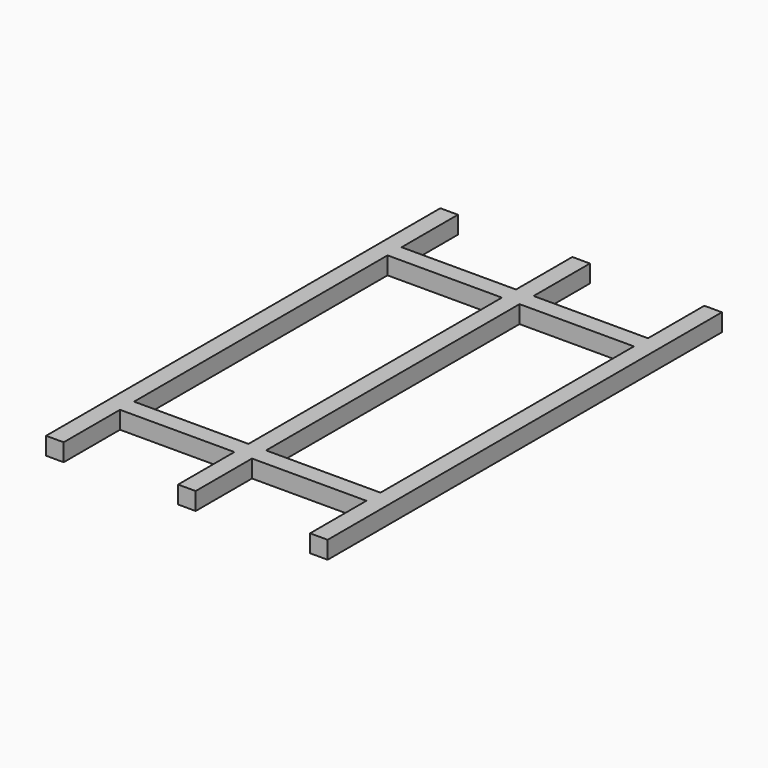
from build123d import *

# Parameters (mm, degrees)
F0_W     = 800
F0_H     = 1400
F1_DEPTH = 50
F2_W     = 325
F2_H     = 200
F2_H_2   = 900
F3_DEPTH = 50


with BuildPart() as f1:
    # F0 (on Top) → F1 (new body)
    with BuildSketch(Plane.XY):
        with Locations((256.27219, 572.146991)):
            Rectangle(F0_W, F0_H)
    extrude(amount=F1_DEPTH)

    # F2 (on face) → F3 (cut)
    with BuildSketch(Plane.XY.offset(50)):
        with Locations((68.77219, 1172.146991)):
            Rectangle(F2_W, F2_H)
        with Locations((68.77219, -27.853009)):
            Rectangle(F2_W, F2_H)
        with Locations((68.77219, 572.146991)):
            Rectangle(F2_W, F2_H_2)
        with Locations((443.77219, 1172.146991)):
            Rectangle(F2_W, F2_H)
        with Locations((443.77219, 572.146991)):
            Rectangle(F2_W, F2_H_2)
        with Locations((443.77219, -27.853009)):
            Rectangle(F2_W, F2_H)
    extrude(amount=-F3_DEPTH, mode=Mode.SUBTRACT)


solid = f1.part
